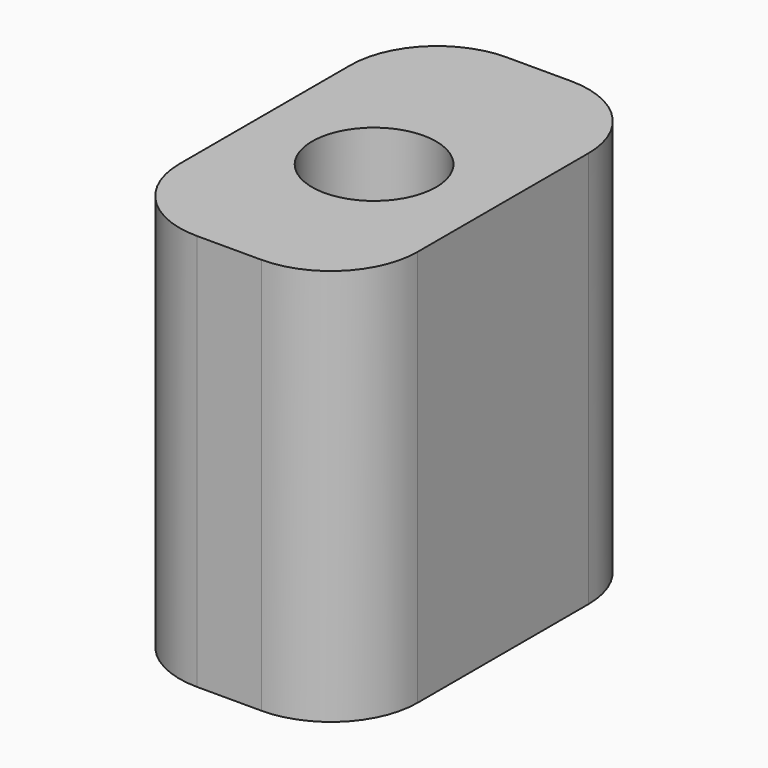
from build123d import *

# Parameters (mm, degrees)
F0_W     = 4.8
F0_H     = 7.8
F0_R     = 1.25
F1_DEPTH = 8
F2_R     = 1.75


with BuildPart() as f1:
    # F0 (on Top) → F1 (new body)
    with BuildSketch(Plane.XY):
        Rectangle(F0_W, F0_H)
        with Locations((0, -0.25)):
            Circle(F0_R, mode=Mode.SUBTRACT)
    extrude(amount=F1_DEPTH)

    # F2
    f2_edges = [f1.edges().sort_by_distance(p)[0] for p in [
        (-2.4, -3.9, 4),
        (2.4, -3.9, 4),
        (2.4, 3.9, 4),
        (-2.4, 3.9, 4),
    ]]
    fillet(f2_edges, radius=F2_R)


solid = f1.part
